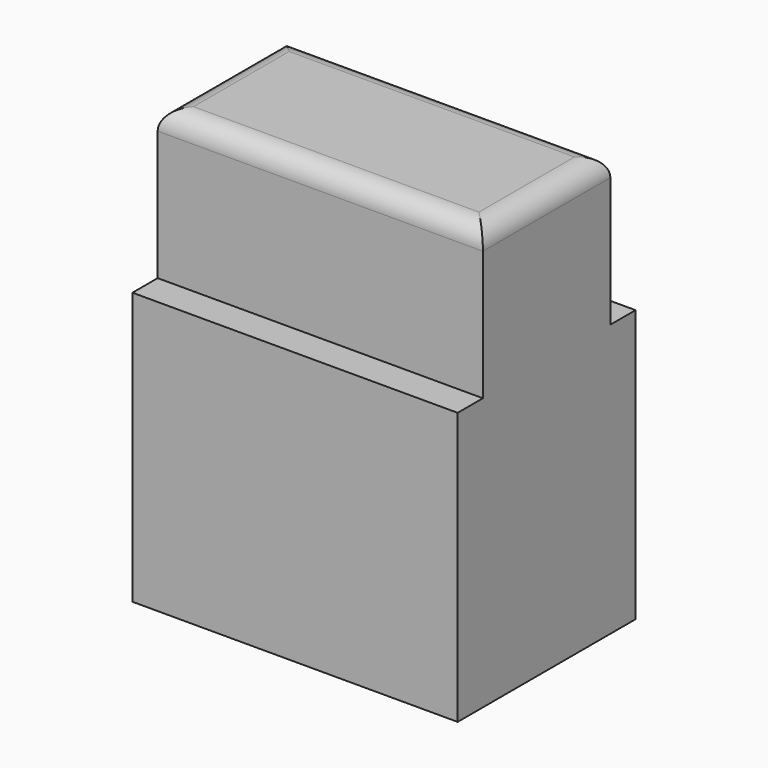
from build123d import *

# Parameters (mm, degrees)
F0_W     = 12.446
F0_H     = 6.096
F1_DEPTH = 5.715
F2_W     = 12.446
F2_H     = 8.509
F3_DEPTH = 10.414
F4_R     = 0.762
F7_D     = 7.874
F7_DEPTH = 6.605


with BuildPart() as f1:
    # F0 (on Top) → F1 (new body)
    with BuildSketch(Plane.XY):
        Rectangle(F0_W, F0_H)
    extrude(amount=F1_DEPTH)

    # F2 (on Top) → F3 (join)
    with BuildSketch(Plane.XY):
        Rectangle(F2_W, F2_H)
    extrude(amount=-F3_DEPTH)

    # F4
    f4_edges = [f1.edges().sort_by_distance(p)[0] for p in [
        (6.223, 0, 5.715),
        (0, 3.048, 5.715),
        (-6.223, 0, 5.715),
        (0, -3.048, 5.715),
    ]]
    fillet(f4_edges, radius=F4_R)

    # F7 (through all, one way)
    with BuildSketch(Plane.XY.offset(-3.81)):
        with Locations((0, 0)):
            Circle(F7_D / 2)
    extrude(amount=-F7_DEPTH, mode=Mode.SUBTRACT)


solid = f1.part
